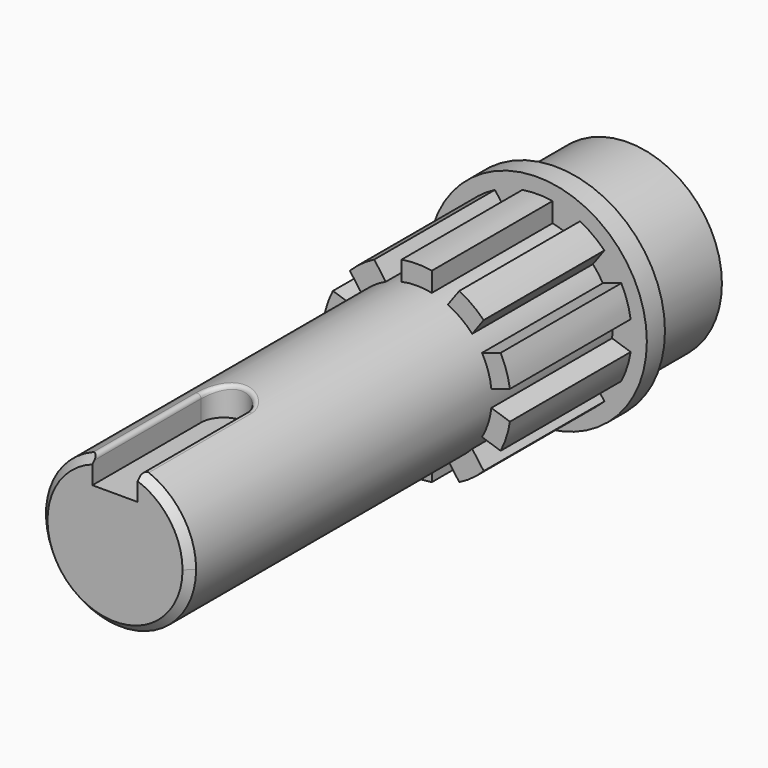
from build123d import *

# Parameters (mm, degrees)
F0_R      = 12.45
F1_DEPTH  = 12
F2_R      = 14.5
F3_DEPTH  = 3
F4_R      = 9.95
F5_DEPTH  = 70
F7_DEPTH  = 20
F10_DEPTH = 10
F11_SIZE  = 1
F12_R     = 0.5


with BuildPart() as f1:
    # F0 (on Front) → F1 (new body)
    with BuildSketch(Plane.XZ):
        Circle(F0_R)
    extrude(amount=-F1_DEPTH)

    # F2 (on Front) → F3 (join)
    with BuildSketch(Plane.XZ):
        Circle(F2_R)
    extrude(amount=F3_DEPTH)

    # F4 (on face) → F5 (join)
    with BuildSketch(Plane.XZ.offset(3)):
        Circle(F4_R)
    extrude(amount=F5_DEPTH)

    # F6 (on face) → F7 (join)
    with BuildSketch(Plane.XZ.offset(3)):
        with BuildLine():
            Line((2, 9.7469225913), (2, 12.3389626793))
            ThreePointArc((2, 12.3389626793), (0, 12.5), (-2, 12.3389626793))
            Line((-2, 12.3389626793), (-2, 9.7469225913))
            ThreePointArc((-2, 9.7469225913), (0, 9.95), (2, 9.7469225913))
        make_face()
        with BuildLine():
            ThreePointArc((-7.3471313431, 6.7098555146), (-5.8484632603, 8.049719094), (-4.1110633656, 9.0609965238))
            Line((-4.1110633656, 9.0609965238), (-5.6346263027, 11.1580010051))
            ThreePointArc((-5.6346263027, 11.1580010051), (-7.3473156537, 10.1127124297), (-8.8706942802, 8.8068599959))
            Line((-8.8706942802, 8.8068599959), (-7.3471313431, 6.7098555146))
        make_face()
        with BuildLine():
            ThreePointArc((-9.887908233, 1.109851691), (-9.4630123371, 3.074719094), (-8.6518402555, 4.9140777561))
            Line((-8.6518402555, 4.9140777561), (-11.1170168717, 5.7150621934))
            ThreePointArc((-11.1170168717, 5.7150621934), (-11.8882064537, 3.8627124297), (-12.3530848492, 1.9108361283))
            Line((-12.3530848492, 1.9108361283), (-9.887908233, 1.109851691))
        make_face()
        with BuildLine():
            ThreePointArc((-8.6518402555, -4.9140777561), (-9.4630123371, -3.074719094), (-9.887908233, -1.109851691))
            Line((-9.887908233, -1.109851691), (-12.3530848492, -1.9108361283))
            ThreePointArc((-12.3530848492, -1.9108361283), (-11.8882064537, -3.8627124297), (-11.1170168717, -5.7150621934))
            Line((-11.1170168717, -5.7150621934), (-8.6518402555, -4.9140777561))
        make_face()
        with BuildLine():
            ThreePointArc((-4.1110633656, -9.0609965238), (-5.8484632603, -8.049719094), (-7.3471313431, -6.7098555146))
            Line((-7.3471313431, -6.7098555146), (-8.8706942802, -8.8068599959))
            ThreePointArc((-8.8706942802, -8.8068599959), (-7.3473156537, -10.1127124297), (-5.6346263027, -11.1580010051))
            Line((-5.6346263027, -11.1580010051), (-4.1110633656, -9.0609965238))
        make_face()
        with BuildLine():
            ThreePointArc((2, -9.7469225913), (0, -9.95), (-2, -9.7469225913))
            Line((-2, -9.7469225913), (-2, -12.3389626793))
            ThreePointArc((-2, -12.3389626793), (0, -12.5), (2, -12.3389626793))
            Line((2, -12.3389626793), (2, -9.7469225913))
        make_face()
        with BuildLine():
            Line((8.8706942802, -8.8068599959), (7.3471313431, -6.7098555146))
            ThreePointArc((7.3471313431, -6.7098555146), (5.8484632603, -8.049719094), (4.1110633656, -9.0609965238))
            Line((4.1110633656, -9.0609965238), (5.6346263027, -11.1580010051))
            ThreePointArc((5.6346263027, -11.1580010051), (7.3473156537, -10.1127124297), (8.8706942802, -8.8068599959))
        make_face()
        with BuildLine():
            Line((12.3530848492, -1.9108361283), (9.887908233, -1.109851691))
            ThreePointArc((9.887908233, -1.109851691), (9.4630123371, -3.074719094), (8.6518402555, -4.9140777561))
            Line((8.6518402555, -4.9140777561), (11.1170168717, -5.7150621934))
            ThreePointArc((11.1170168717, -5.7150621934), (11.8882064537, -3.8627124297), (12.3530848492, -1.9108361283))
        make_face()
        with BuildLine():
            Line((11.1170168717, 5.7150621934), (8.6518402555, 4.9140777561))
            ThreePointArc((8.6518402555, 4.9140777561), (9.4630123371, 3.074719094), (9.887908233, 1.109851691))
            Line((9.887908233, 1.109851691), (12.3530848492, 1.9108361283))
            ThreePointArc((12.3530848492, 1.9108361283), (11.8882064537, 3.8627124297), (11.1170168717, 5.7150621934))
        make_face()
        with BuildLine():
            Line((5.6346263027, 11.1580010051), (4.1110633656, 9.0609965238))
            ThreePointArc((4.1110633656, 9.0609965238), (5.8484632603, 8.049719094), (7.3471313431, 6.7098555146))
            Line((7.3471313431, 6.7098555146), (8.8706942802, 8.8068599959))
            ThreePointArc((8.8706942802, 8.8068599959), (7.3473156537, 10.1127124297), (5.6346263027, 11.1580010051))
        make_face()
    extrude(amount=F7_DEPTH)

    # F9 (on offset) → F10 (cut)
    with BuildSketch(Plane.XY.offset(6)):
        with BuildLine():
            Line((-3, -55), (-3, -85))
            Line((-3, -85), (3, -85))
            Line((3, -85), (3, -55))
            ThreePointArc((3, -55), (0, -52), (-3, -55))
        make_face()
    extrude(amount=F10_DEPTH, mode=Mode.SUBTRACT)

    # F11
    f11_edges = [f1.edges().sort_by_distance(p)[0] for p in [
        (-5.880157, -73, -8.026596),
    ]]
    chamfer(f11_edges, length=F11_SIZE)

    # F12
    f12_edges = [f1.edges().sort_by_distance(p)[0] for p in [
        (-3, -63.5, 9.486965),
        (0, -52, 9.95),
        (3, -63.5, 9.486965),
    ]]
    fillet(f12_edges, radius=F12_R)


solid = f1.part
